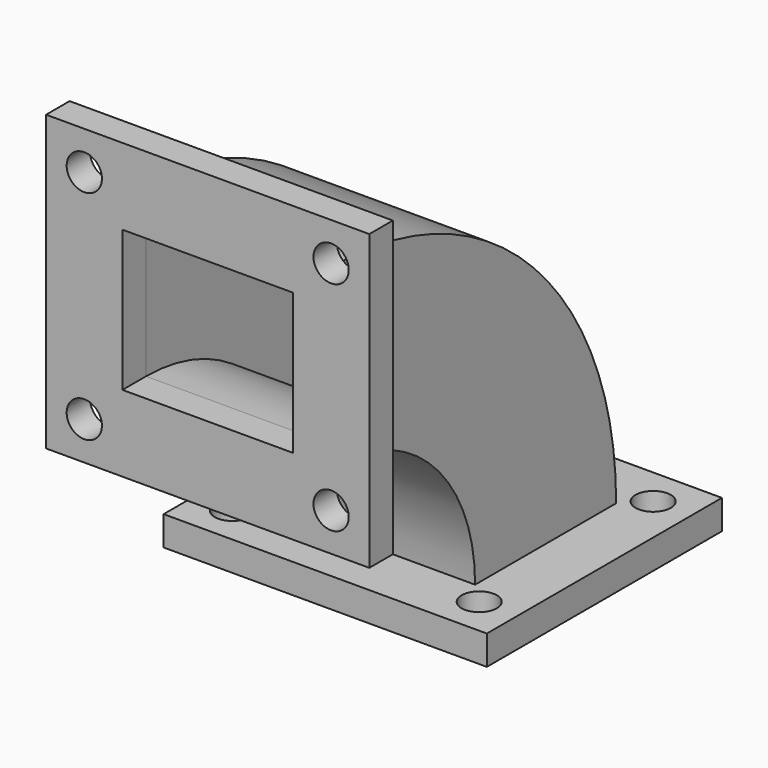
from build123d import *

# Parameters (mm, degrees)
F0_W     = 1397
F0_H     = 1270
F0_R     = 76.2
F0_W_2   = 736.6
F0_H_2   = 609.6
F2_DEPTH = 127
F3_W     = 889
F3_H     = 762
F3_W_2   = 736.6
F3_H_2   = 609.6
F6_ANGLE = 90
F8_ANGLE = -90


with BuildPart() as f2:
    # F0 (on Front) → F2 (new body)
    with BuildSketch(Plane.XZ):
        Rectangle(F0_W, F0_H)
        with Locations((-533.4, -469.9)):
            Circle(F0_R, mode=Mode.SUBTRACT)
        with Locations((533.4, -469.9)):
            Circle(F0_R, mode=Mode.SUBTRACT)
        with Locations((-533.4, 469.9)):
            Circle(F0_R, mode=Mode.SUBTRACT)
        Rectangle(F0_W_2, F0_H_2, mode=Mode.SUBTRACT)
        with Locations((533.4, 469.9)):
            Circle(F0_R, mode=Mode.SUBTRACT)
    extrude(amount=F2_DEPTH)


with BuildPart() as f6:
    # F3 (on face) → F6 (revolve)
    with BuildSketch(Plane(origin=(0, 0, 0), x_dir=(-1, 0, 0), z_dir=(0, 1, 0))):
        Rectangle(F3_W, F3_H)
        Rectangle(F3_W_2, F3_H_2, mode=Mode.SUBTRACT)
    revolve(axis=Axis((19.1886723042, 0, -1143), (-1, 0, 0)), revolution_arc=F6_ANGLE)


with BuildPart() as f7_1:
    # F7: copy of F2
    add(f2.part.moved(Location((0, 127, 0))))


with BuildPart() as f7_1_1:
    # F8: moved
    add(f7_1.part.rotate(Axis((19.1886723042, 0, -1143), (1, 0, 0)), F8_ANGLE))


solid = Compound([f2.part, f6.part, f7_1_1.part])
